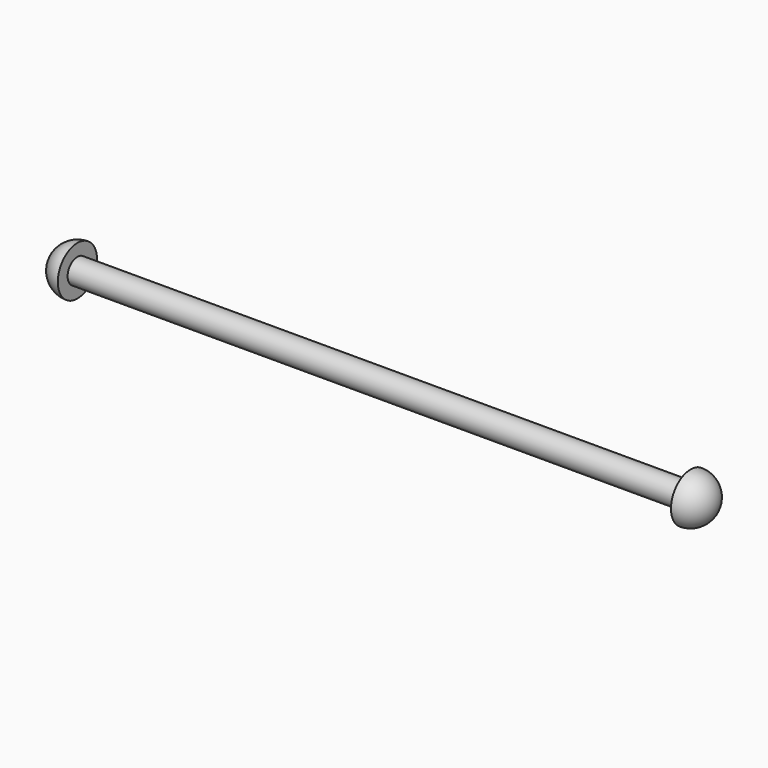
from build123d import *

# Parameters (mm, degrees)
SPHERE_ANGLE          = 180
SPHERE_ROLL_ANGLE     = -90
CYLINDER006_R         = 2
CYLINDER006_DEPTH     = 100
SPHERE001_ANGLE       = 180
SPHERE001_ROLL_ANGLE  = 90
FUSION001_PITCH_ANGLE = -90


with BuildPart() as sphere:
    # Sphere → Sphere (revolve)
    with BuildSketch(Plane.XZ):
        with BuildLine():
            ThreePointArc((0, -4), (4, 0), (0, 4))
            Line((0, 4), (0, -4))
        make_face()
    revolve(axis=Axis((0, 0, 0), (0, 0, 1)), revolution_arc=SPHERE_ANGLE)


with BuildPart() as sphere_1:
    # Sphere roll: moved
    add(sphere.part.rotate(Axis((0, 0, 0), (1, 0, 0)), SPHERE_ROLL_ANGLE))


with BuildPart() as sphere_2:
    # Sphere placement: moved
    add(sphere_1.part)


with BuildPart() as fusion:
    # Cylinder006 → Cylinder006 (new body)
    with BuildSketch(Plane.XY):
        Circle(CYLINDER006_R)
    extrude(amount=CYLINDER006_DEPTH)

    # Fusion: union Sphere
    add(sphere_2.part)


with BuildPart() as fusion001:
    # Sphere001 → Sphere001 (revolve)
    with BuildSketch(Plane.XZ):
        with BuildLine():
            ThreePointArc((0, -4), (4, 0), (0, 4))
            Line((0, 4), (0, -4))
        make_face()
    revolve(axis=Axis((0, 0, 0), (0, 0, 1)), revolution_arc=SPHERE001_ANGLE)


with BuildPart() as fusion001_1:
    # Sphere001 roll: moved
    add(fusion001.part.rotate(Axis((0, 0, 0), (1, 0, 0)), SPHERE001_ROLL_ANGLE))


with BuildPart() as fusion001_2:
    # Sphere001 placement: moved
    add(fusion001_1.part.moved(Location((0, 0, 100))))

    # Fusion001: union Fusion
    add(fusion.part)


with BuildPart() as fusion001_3:
    # Fusion001 pitch: moved
    add(fusion001_2.part.rotate(Axis((0, 0, 0), (0, 1, 0)), FUSION001_PITCH_ANGLE))


with BuildPart() as fusion001_4:
    # Fusion001 placement: moved
    add(fusion001_3.part.moved(Location((0, 8, 3.5))))


solid = fusion001_4.part
